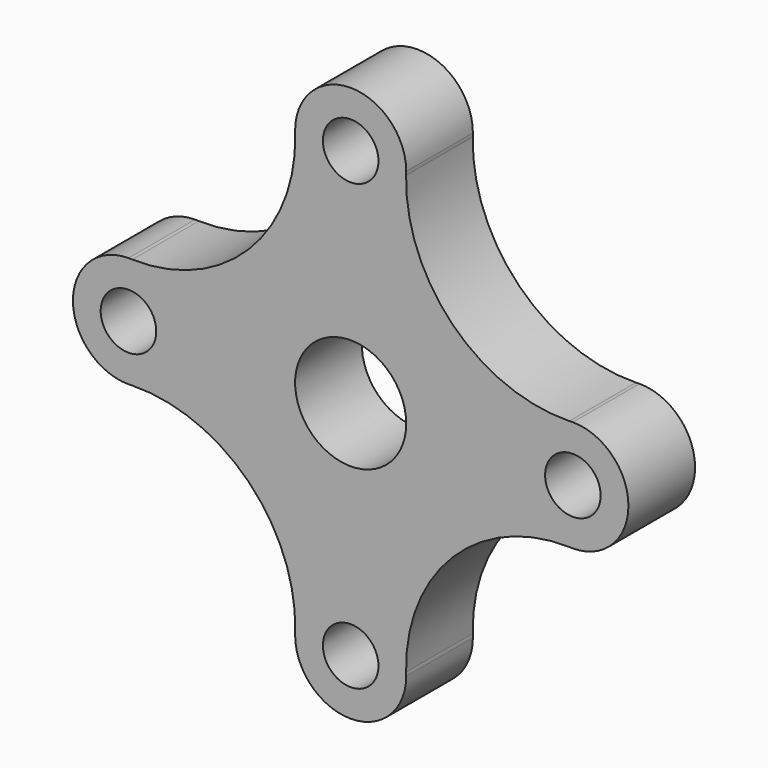
from build123d import *

# Parameters (mm, degrees)
F0_R     = 6.35
F0_R_2   = 12.7
F1_DEPTH = 19.05


with BuildPart() as f1:
    # F0 (on Front) → F1 (new body)
    with BuildSketch(Plane.XZ):
        with BuildLine():
            ThreePointArc((12.7, 50.8), (12.684041, 50.384765), (12.672808, 49.969374))
            ThreePointArc((12.672808, 49.969374), (12.6932, 50.384465), (12.7, 50.8))
        make_face()
        with BuildLine():
            ThreePointArc((49.969374, 12.672808), (23.362469, 23.362469), (12.672808, 49.969374))
            ThreePointArc((12.672808, 49.969374), (12.684041, 50.384765), (12.7, 50.8))
            ThreePointArc((12.7, 50.8), (0, 63.5), (-12.7, 50.8))
            ThreePointArc((-12.7, 50.8), (-12.684041, 50.384765), (-12.672808, 49.969374))
            ThreePointArc((-12.672808, 49.969374), (-23.362469, 23.362469), (-49.969374, 12.672808))
            ThreePointArc((-49.969374, 12.672808), (-50.384765, 12.684041), (-50.8, 12.7))
            ThreePointArc((-50.8, 12.7), (-63.5, 0), (-50.8, -12.7))
            ThreePointArc((-50.8, -12.7), (-50.384765, -12.684041), (-49.969374, -12.672808))
            ThreePointArc((-49.969374, -12.672808), (-23.362469, -23.362469), (-12.672808, -49.969374))
            ThreePointArc((-12.672808, -49.969374), (-12.684041, -50.384765), (-12.7, -50.8))
            ThreePointArc((-12.7, -50.8), (0, -63.5), (12.7, -50.8))
            ThreePointArc((12.7, -50.8), (12.684041, -50.384765), (12.672808, -49.969374))
            ThreePointArc((12.672808, -49.969374), (23.362469, -23.362469), (49.969374, -12.672808))
            ThreePointArc((49.969374, -12.672808), (50.384765, -12.684041), (50.8, -12.7))
            ThreePointArc((50.8, -12.7), (63.5, 0), (50.8, 12.7))
            ThreePointArc((50.8, 12.7), (50.384765, 12.684041), (49.969374, 12.672808))
        make_face()
        with Locations((0, -50.8)):
            Circle(F0_R, mode=Mode.SUBTRACT)
        with Locations((-50.8, 0)):
            Circle(F0_R, mode=Mode.SUBTRACT)
        Circle(F0_R_2, mode=Mode.SUBTRACT)
        with Locations((50.8, 0)):
            Circle(F0_R, mode=Mode.SUBTRACT)
        with Locations((0, 50.8)):
            Circle(F0_R, mode=Mode.SUBTRACT)
        with BuildLine():
            ThreePointArc((50.8, 12.7), (50.384465, 12.6932), (49.969374, 12.672808))
            ThreePointArc((49.969374, 12.672808), (50.384765, 12.684041), (50.8, 12.7))
        make_face()
        with BuildLine():
            ThreePointArc((-12.672808, 49.969374), (-12.684041, 50.384765), (-12.7, 50.8))
            ThreePointArc((-12.7, 50.8), (-12.6932, 50.384465), (-12.672808, 49.969374))
        make_face()
        with BuildLine():
            ThreePointArc((49.969374, -12.672808), (50.384465, -12.6932), (50.8, -12.7))
            ThreePointArc((50.8, -12.7), (50.384765, -12.684041), (49.969374, -12.672808))
        make_face()
        with BuildLine():
            ThreePointArc((-50.8, 12.7), (-50.384765, 12.684041), (-49.969374, 12.672808))
            ThreePointArc((-49.969374, 12.672808), (-50.384465, 12.6932), (-50.8, 12.7))
        make_face()
        with BuildLine():
            ThreePointArc((12.7, -50.8), (12.6932, -50.384465), (12.672808, -49.969374))
            ThreePointArc((12.672808, -49.969374), (12.684041, -50.384765), (12.7, -50.8))
        make_face()
        with BuildLine():
            ThreePointArc((-49.969374, -12.672808), (-50.384765, -12.684041), (-50.8, -12.7))
            ThreePointArc((-50.8, -12.7), (-50.384465, -12.6932), (-49.969374, -12.672808))
        make_face()
        with BuildLine():
            ThreePointArc((-12.672808, -49.969374), (-12.6932, -50.384465), (-12.7, -50.8))
            ThreePointArc((-12.7, -50.8), (-12.684041, -50.384765), (-12.672808, -49.969374))
        make_face()
    extrude(amount=F1_DEPTH)


solid = f1.part
